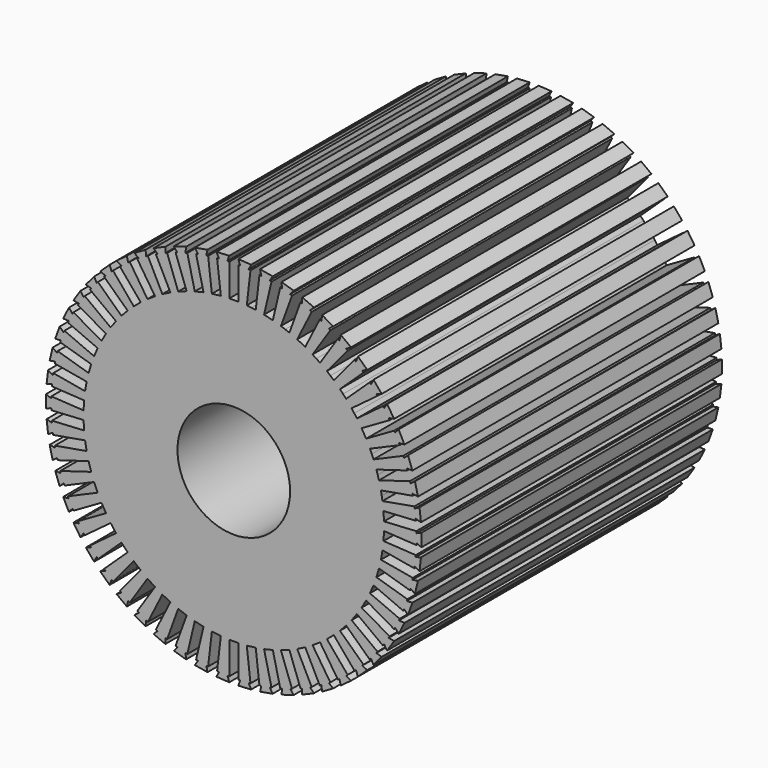
from build123d import *

# Parameters (mm, degrees)
F0_R     = 75
F1_DEPTH = 500


with BuildPart() as f1:
    # F0 (on Front) → F1 (new body)
    with BuildSketch(Plane.XZ):
        Polygon((8.5, 243), (6, 243), (6, 200), (0, 200), (-6, 200), (-6, 243), (-8.5, 243), (-6, 250), (-23.063798, 249.006147), (-19.768052, 242.343711), (-22.251148, 242.053478), (-17.259153, 199.344229), (-23.218583, 198.647672), (-29.178013, 197.951114), (-34.170008, 240.660363), (-36.653104, 240.370131), (-34.982659, 247.613032), (-51.815698, 244.644913), (-47.768775, 238.410138), (-50.201387, 237.833599), (-40.284905, 195.992669), (-46.123174, 194.608974), (-51.961443, 193.225279), (-61.877926, 235.066208), (-64.310538, 234.489669), (-63.492237, 241.877522), (-79.86688, 236.975276), (-75.123508, 231.252478), (-77.472739, 230.397428), (-62.765873, 189.990645), (-68.404029, 187.938524), (-74.042184, 185.886403), (-88.749051, 226.293186), (-91.098282, 225.438136), (-91.143192, 232.871034), (-106.837999, 226.100955), (-101.462323, 220.967525), (-103.696405, 219.845527), (-84.39804, 181.419323), (-89.759836, 178.726528), (-95.121632, 176.033733), (-114.419997, 214.459937), (-116.654078, 213.337939), (-117.561591, 220.715365), (-132.364318, 212.169007), (-126.429035, 207.694364), (-128.517755, 206.320592), (-104.888869, 170.394616), (-109.901796, 167.097562), (-114.914722, 163.800508), (-138.543609, 199.726484), (-140.632328, 198.352712), (-142.390171, 205.574899), (-156.100636, 195.367836), (-149.686011, 191.612494), (-151.601122, 190.005525), (-123.961255, 157.065614), (-128.557522, 153.208889), (-133.153789, 149.352163), (-160.793656, 182.292074), (-162.708767, 180.685105), (-165.293169, 187.654385), (-177.725961, 175.924651), (-170.918741, 172.939394), (-172.634345, 171.12096), (-141.357278, 141.612569), (-145.474728, 137.248328), (-149.592178, 132.884086), (-180.869245, 162.392476), (-182.584849, 160.574042), (-185.96086, 167.196168), (-196.947847, 154.102387), (-189.840088, 151.927585), (-191.332984, 149.922277), (-156.841687, 124.244457), (-160.424639, 119.431718), (-164.00759, 114.618979), (-198.498887, 140.296799), (-199.991784, 138.291491), (-204.11375, 144.476909), (-213.506351, 130.196152), (-206.194173, 128.861216), (-207.444173, 126.696152), (-170.205081, 105.196152), (-173.205081, 100), (-176.205081, 94.803848), (-213.444173, 116.303848), (-214.694173, 114.138784), (-219.506351, 119.803848), (-227.177548, 104.529238), (-219.759836, 104.05222), (-220.750035, 101.75668), (-181.266743, 84.72525), (-183.643221, 79.215953), (-186.0197, 73.706657), (-225.502993, 90.738087), (-226.493192, 88.442546), (-231.930505, 93.510645), (-237.776559, 77.448745), (-230.353624, 77.836096), (-231.070632, 75.441123), (-189.877083, 63.108584), (-191.597902, 57.360647), (-193.318722, 51.612709), (-234.512271, 63.945248), (-235.229279, 61.550275), (-241.218197, 65.952871), (-245.160049, 49.320891), (-237.832274, 50.567373), (-238.266395, 48.105354), (-195.919662, 40.638482), (-196.961551, 34.729636), (-198.00344, 28.820789), (-240.350173, 36.287661), (-240.784293, 33.825641), (-247.243827, 37.503198), (-249.228171, 20.526056), (-242.094651, 22.614813), (-242.240013, 20.119042), (-199.312763, 17.618815), (-199.661632, 11.628966), (-200.010501, 5.639117), (-242.937751, 8.139344), (-243.083114, 5.643574), (-249.925909, 8.546358), (-249.925909, -8.546358), (-243.083114, -5.643574), (-242.937751, -8.139344), (-200.010501, -5.639117), (-199.661632, -11.628966), (-199.312763, -17.618815), (-242.240013, -20.119042), (-242.094651, -22.614813), (-249.228171, -20.526056), (-247.243827, -37.503198), (-240.784293, -33.825641), (-240.350173, -36.287661), (-198.00344, -28.820789), (-196.961551, -34.729636), (-195.919662, -40.638482), (-238.266395, -48.105354), (-237.832274, -50.567373), (-245.160049, -49.320891), (-241.218197, -65.952871), (-235.229279, -61.550275), (-234.512271, -63.945248), (-193.318722, -51.612709), (-191.597902, -57.360647), (-189.877083, -63.108584), (-231.070632, -75.441123), (-230.353624, -77.836096), (-237.776559, -77.448745), (-231.930505, -93.510645), (-226.493192, -88.442546), (-225.502993, -90.738087), (-186.0197, -73.706657), (-183.643221, -79.215953), (-181.266743, -84.72525), (-220.750035, -101.75668), (-219.759836, -104.05222), (-227.177548, -104.529238), (-219.506351, -119.803848), (-214.694173, -114.138784), (-213.444173, -116.303848), (-176.205081, -94.803848), (-173.205081, -100), (-170.205081, -105.196152), (-207.444173, -126.696152), (-206.194173, -128.861216), (-213.506351, -130.196152), (-204.11375, -144.476909), (-199.991784, -138.291491), (-198.498887, -140.296799), (-164.00759, -114.618979), (-160.424639, -119.431718), (-156.841687, -124.244457), (-191.332984, -149.922277), (-189.840088, -151.927585), (-196.947847, -154.102387), (-185.96086, -167.196168), (-182.584849, -160.574042), (-180.869245, -162.392476), (-149.592178, -132.884086), (-145.474728, -137.248328), (-141.357278, -141.612569), (-172.634345, -171.12096), (-170.918741, -172.939394), (-177.725961, -175.924651), (-165.293169, -187.654385), (-162.708767, -180.685105), (-160.793656, -182.292074), (-133.153789, -149.352163), (-128.557522, -153.208889), (-123.961255, -157.065614), (-151.601122, -190.005525), (-149.686011, -191.612494), (-156.100636, -195.367836), (-142.390171, -205.574899), (-140.632328, -198.352712), (-138.543609, -199.726484), (-114.914722, -163.800508), (-109.901796, -167.097562), (-104.888869, -170.394616), (-128.517755, -206.320592), (-126.429035, -207.694364), (-132.364318, -212.169007), (-117.561591, -220.715365), (-116.654078, -213.337939), (-114.419997, -214.459937), (-95.121632, -176.033733), (-89.759836, -178.726528), (-84.39804, -181.419323), (-103.696405, -219.845527), (-101.462323, -220.967525), (-106.837999, -226.100955), (-91.143192, -232.871034), (-91.098282, -225.438136), (-88.749051, -226.293186), (-74.042184, -185.886403), (-68.404029, -187.938524), (-62.765873, -189.990645), (-77.472739, -230.397428), (-75.123508, -231.252478), (-79.86688, -236.975276), (-63.492237, -241.877522), (-64.310538, -234.489669), (-61.877926, -235.066208), (-51.961443, -193.225279), (-46.123174, -194.608974), (-40.284905, -195.992669), (-50.201387, -237.833599), (-47.768775, -238.410138), (-51.815698, -244.644913), (-34.982659, -247.613032), (-36.653104, -240.370131), (-34.170008, -240.660363), (-29.178013, -197.951114), (-23.218583, -198.647672), (-17.259153, -199.344229), (-22.251148, -242.053478), (-19.768052, -242.343711), (-23.063798, -249.006147), (-6, -250), (-8.5, -243), (-6, -243), (-6, -200), (0, -200), (6, -200), (6, -243), (8.5, -243), (6, -250), (23.063798, -249.006147), (19.768052, -242.343711), (22.251148, -242.053478), (17.259153, -199.344229), (23.218583, -198.647672), (29.178013, -197.951114), (34.170008, -240.660363), (36.653104, -240.370131), (34.982659, -247.613032), (51.815698, -244.644913), (47.768775, -238.410138), (50.201387, -237.833599), (40.284905, -195.992669), (46.123174, -194.608974), (51.961443, -193.225279), (61.877926, -235.066208), (64.310538, -234.489669), (63.492237, -241.877522), (79.86688, -236.975276), (75.123508, -231.252478), (77.472739, -230.397428), (62.765873, -189.990645), (68.404029, -187.938524), (74.042184, -185.886403), (88.749051, -226.293186), (91.098282, -225.438136), (91.143192, -232.871034), (106.837999, -226.100955), (101.462323, -220.967525), (103.696405, -219.845527), (84.39804, -181.419323), (89.759836, -178.726528), (95.121632, -176.033733), (114.419997, -214.459937), (116.654078, -213.337939), (117.561591, -220.715365), (132.364318, -212.169007), (126.429035, -207.694364), (128.517755, -206.320592), (104.888869, -170.394616), (109.901796, -167.097562), (114.914722, -163.800508), (138.543609, -199.726484), (140.632328, -198.352712), (142.390171, -205.574899), (156.100636, -195.367836), (149.686011, -191.612494), (151.601122, -190.005525), (123.961255, -157.065614), (128.557522, -153.208889), (133.153789, -149.352163), (160.793656, -182.292074), (162.708767, -180.685105), (165.293169, -187.654385), (177.725961, -175.924651), (170.918741, -172.939394), (172.634345, -171.12096), (141.357278, -141.612569), (145.474728, -137.248328), (149.592178, -132.884086), (180.869245, -162.392476), (182.584849, -160.574042), (185.96086, -167.196168), (196.947847, -154.102387), (189.840088, -151.927585), (191.332984, -149.922277), (156.841687, -124.244457), (160.424639, -119.431718), (164.00759, -114.618979), (198.498887, -140.296799), (199.991784, -138.291491), (204.11375, -144.476909), (213.506351, -130.196152), (206.194173, -128.861216), (207.444173, -126.696152), (170.205081, -105.196152), (173.205081, -100), (176.205081, -94.803848), (213.444173, -116.303848), (214.694173, -114.138784), (219.506351, -119.803848), (227.177548, -104.529238), (219.759836, -104.05222), (220.750035, -101.75668), (181.266743, -84.72525), (183.643221, -79.215953), (186.0197, -73.706657), (225.502993, -90.738087), (226.493192, -88.442546), (231.930505, -93.510645), (237.776559, -77.448745), (230.353624, -77.836096), (231.070632, -75.441123), (189.877083, -63.108584), (191.597902, -57.360647), (193.318722, -51.612709), (234.512271, -63.945248), (235.229279, -61.550275), (241.218197, -65.952871), (245.160049, -49.320891), (237.832274, -50.567373), (238.266395, -48.105354), (195.919662, -40.638482), (196.961551, -34.729636), (198.00344, -28.820789), (240.350173, -36.287661), (240.784293, -33.825641), (247.243827, -37.503198), (249.228171, -20.526056), (242.094651, -22.614813), (242.240013, -20.119042), (199.312763, -17.618815), (199.661632, -11.628966), (200.010501, -5.639117), (242.937751, -8.139344), (243.083114, -5.643574), (249.925909, -8.546358), (249.925909, 8.546358), (243.083114, 5.643574), (242.937751, 8.139344), (200.010501, 5.639117), (199.661632, 11.628966), (199.312763, 17.618815), (242.240013, 20.119042), (242.094651, 22.614813), (249.228171, 20.526056), (247.243827, 37.503198), (240.784293, 33.825641), (240.350173, 36.287661), (198.00344, 28.820789), (196.961551, 34.729636), (195.919662, 40.638482), (238.266395, 48.105354), (237.832274, 50.567373), (245.160049, 49.320891), (241.218197, 65.952871), (235.229279, 61.550275), (234.512271, 63.945248), (193.318722, 51.612709), (191.597902, 57.360647), (189.877083, 63.108584), (231.070632, 75.441123), (230.353624, 77.836096), (237.776559, 77.448745), (231.930505, 93.510645), (226.493192, 88.442546), (225.502993, 90.738087), (186.0197, 73.706657), (183.643221, 79.215953), (181.266743, 84.72525), (220.750035, 101.75668), (219.759836, 104.05222), (227.177548, 104.529238), (219.506351, 119.803848), (214.694173, 114.138784), (213.444173, 116.303848), (176.205081, 94.803848), (173.205081, 100), (170.205081, 105.196152), (207.444173, 126.696152), (206.194173, 128.861216), (213.506351, 130.196152), (204.11375, 144.476909), (199.991784, 138.291491), (198.498887, 140.296799), (164.00759, 114.618979), (160.424639, 119.431718), (156.841687, 124.244457), (191.332984, 149.922277), (189.840088, 151.927585), (196.947847, 154.102387), (185.96086, 167.196168), (182.584849, 160.574042), (180.869245, 162.392476), (149.592178, 132.884086), (145.474728, 137.248328), (141.357278, 141.612569), (172.634345, 171.12096), (170.918741, 172.939394), (177.725961, 175.924651), (165.293169, 187.654385), (162.708767, 180.685105), (160.793656, 182.292074), (133.153789, 149.352163), (128.557522, 153.208889), (123.961255, 157.065614), (151.601122, 190.005525), (149.686011, 191.612494), (156.100636, 195.367836), (142.390171, 205.574899), (140.632328, 198.352712), (138.543609, 199.726484), (114.914722, 163.800508), (109.901796, 167.097562), (104.888869, 170.394616), (128.517755, 206.320592), (126.429035, 207.694364), (132.364318, 212.169007), (117.561591, 220.715365), (116.654078, 213.337939), (114.419997, 214.459937), (95.121632, 176.033733), (89.759836, 178.726528), (84.39804, 181.419323), (103.696405, 219.845527), (101.462323, 220.967525), (106.837999, 226.100955), (91.143192, 232.871034), (91.098282, 225.438136), (88.749051, 226.293186), (74.042184, 185.886403), (68.404029, 187.938524), (62.765873, 189.990645), (77.472739, 230.397428), (75.123508, 231.252478), (79.86688, 236.975276), (63.492237, 241.877522), (64.310538, 234.489669), (61.877926, 235.066208), (51.961443, 193.225279), (46.123174, 194.608974), (40.284905, 195.992669), (50.201387, 237.833599), (47.768775, 238.410138), (51.815698, 244.644913), (34.982659, 247.613032), (36.653104, 240.370131), (34.170008, 240.660363), (29.178013, 197.951114), (23.218583, 198.647672), (17.259153, 199.344229), (22.251148, 242.053478), (19.768052, 242.343711), (23.063798, 249.006147), (6, 250), align=None)
        Circle(F0_R, mode=Mode.SUBTRACT)
        Polygon((8.5, 243), (6, 243), (6, 200), (0, 200), (-6, 200), (-6, 243), (-8.5, 243), (-6, 250), (-23.063798, 249.006147), (-19.768052, 242.343711), (-22.251148, 242.053478), (-17.259153, 199.344229), (-23.218583, 198.647672), (-29.178013, 197.951114), (-34.170008, 240.660363), (-36.653104, 240.370131), (-34.982659, 247.613032), (-51.815698, 244.644913), (-47.768775, 238.410138), (-50.201387, 237.833599), (-40.284905, 195.992669), (-46.123174, 194.608974), (-51.961443, 193.225279), (-61.877926, 235.066208), (-64.310538, 234.489669), (-63.492237, 241.877522), (-79.86688, 236.975276), (-75.123508, 231.252478), (-77.472739, 230.397428), (-62.765873, 189.990645), (-68.404029, 187.938524), (-74.042184, 185.886403), (-88.749051, 226.293186), (-91.098282, 225.438136), (-91.143192, 232.871034), (-106.837999, 226.100955), (-101.462323, 220.967525), (-103.696405, 219.845527), (-84.39804, 181.419323), (-89.759836, 178.726528), (-95.121632, 176.033733), (-114.419997, 214.459937), (-116.654078, 213.337939), (-117.561591, 220.715365), (-132.364318, 212.169007), (-126.429035, 207.694364), (-128.517755, 206.320592), (-104.888869, 170.394616), (-109.901796, 167.097562), (-114.914722, 163.800508), (-138.543609, 199.726484), (-140.632328, 198.352712), (-142.390171, 205.574899), (-156.100636, 195.367836), (-149.686011, 191.612494), (-151.601122, 190.005525), (-123.961255, 157.065614), (-128.557522, 153.208889), (-133.153789, 149.352163), (-160.793656, 182.292074), (-162.708767, 180.685105), (-165.293169, 187.654385), (-177.725961, 175.924651), (-170.918741, 172.939394), (-172.634345, 171.12096), (-141.357278, 141.612569), (-145.474728, 137.248328), (-149.592178, 132.884086), (-180.869245, 162.392476), (-182.584849, 160.574042), (-185.96086, 167.196168), (-196.947847, 154.102387), (-189.840088, 151.927585), (-191.332984, 149.922277), (-156.841687, 124.244457), (-160.424639, 119.431718), (-164.00759, 114.618979), (-198.498887, 140.296799), (-199.991784, 138.291491), (-204.11375, 144.476909), (-213.506351, 130.196152), (-206.194173, 128.861216), (-207.444173, 126.696152), (-170.205081, 105.196152), (-173.205081, 100), (-176.205081, 94.803848), (-213.444173, 116.303848), (-214.694173, 114.138784), (-219.506351, 119.803848), (-227.177548, 104.529238), (-219.759836, 104.05222), (-220.750035, 101.75668), (-181.266743, 84.72525), (-183.643221, 79.215953), (-186.0197, 73.706657), (-225.502993, 90.738087), (-226.493192, 88.442546), (-231.930505, 93.510645), (-237.776559, 77.448745), (-230.353624, 77.836096), (-231.070632, 75.441123), (-189.877083, 63.108584), (-191.597902, 57.360647), (-193.318722, 51.612709), (-234.512271, 63.945248), (-235.229279, 61.550275), (-241.218197, 65.952871), (-245.160049, 49.320891), (-237.832274, 50.567373), (-238.266395, 48.105354), (-195.919662, 40.638482), (-196.961551, 34.729636), (-198.00344, 28.820789), (-240.350173, 36.287661), (-240.784293, 33.825641), (-247.243827, 37.503198), (-249.228171, 20.526056), (-242.094651, 22.614813), (-242.240013, 20.119042), (-199.312763, 17.618815), (-199.661632, 11.628966), (-200.010501, 5.639117), (-242.937751, 8.139344), (-243.083114, 5.643574), (-249.925909, 8.546358), (-249.925909, -8.546358), (-243.083114, -5.643574), (-242.937751, -8.139344), (-200.010501, -5.639117), (-199.661632, -11.628966), (-199.312763, -17.618815), (-242.240013, -20.119042), (-242.094651, -22.614813), (-249.228171, -20.526056), (-247.243827, -37.503198), (-240.784293, -33.825641), (-240.350173, -36.287661), (-198.00344, -28.820789), (-196.961551, -34.729636), (-195.919662, -40.638482), (-238.266395, -48.105354), (-237.832274, -50.567373), (-245.160049, -49.320891), (-241.218197, -65.952871), (-235.229279, -61.550275), (-234.512271, -63.945248), (-193.318722, -51.612709), (-191.597902, -57.360647), (-189.877083, -63.108584), (-231.070632, -75.441123), (-230.353624, -77.836096), (-237.776559, -77.448745), (-231.930505, -93.510645), (-226.493192, -88.442546), (-225.502993, -90.738087), (-186.0197, -73.706657), (-183.643221, -79.215953), (-181.266743, -84.72525), (-220.750035, -101.75668), (-219.759836, -104.05222), (-227.177548, -104.529238), (-219.506351, -119.803848), (-214.694173, -114.138784), (-213.444173, -116.303848), (-176.205081, -94.803848), (-173.205081, -100), (-170.205081, -105.196152), (-207.444173, -126.696152), (-206.194173, -128.861216), (-213.506351, -130.196152), (-204.11375, -144.476909), (-199.991784, -138.291491), (-198.498887, -140.296799), (-164.00759, -114.618979), (-160.424639, -119.431718), (-156.841687, -124.244457), (-191.332984, -149.922277), (-189.840088, -151.927585), (-196.947847, -154.102387), (-185.96086, -167.196168), (-182.584849, -160.574042), (-180.869245, -162.392476), (-149.592178, -132.884086), (-145.474728, -137.248328), (-141.357278, -141.612569), (-172.634345, -171.12096), (-170.918741, -172.939394), (-177.725961, -175.924651), (-165.293169, -187.654385), (-162.708767, -180.685105), (-160.793656, -182.292074), (-133.153789, -149.352163), (-128.557522, -153.208889), (-123.961255, -157.065614), (-151.601122, -190.005525), (-149.686011, -191.612494), (-156.100636, -195.367836), (-142.390171, -205.574899), (-140.632328, -198.352712), (-138.543609, -199.726484), (-114.914722, -163.800508), (-109.901796, -167.097562), (-104.888869, -170.394616), (-128.517755, -206.320592), (-126.429035, -207.694364), (-132.364318, -212.169007), (-117.561591, -220.715365), (-116.654078, -213.337939), (-114.419997, -214.459937), (-95.121632, -176.033733), (-89.759836, -178.726528), (-84.39804, -181.419323), (-103.696405, -219.845527), (-101.462323, -220.967525), (-106.837999, -226.100955), (-91.143192, -232.871034), (-91.098282, -225.438136), (-88.749051, -226.293186), (-74.042184, -185.886403), (-68.404029, -187.938524), (-62.765873, -189.990645), (-77.472739, -230.397428), (-75.123508, -231.252478), (-79.86688, -236.975276), (-63.492237, -241.877522), (-64.310538, -234.489669), (-61.877926, -235.066208), (-51.961443, -193.225279), (-46.123174, -194.608974), (-40.284905, -195.992669), (-50.201387, -237.833599), (-47.768775, -238.410138), (-51.815698, -244.644913), (-34.982659, -247.613032), (-36.653104, -240.370131), (-34.170008, -240.660363), (-29.178013, -197.951114), (-23.218583, -198.647672), (-17.259153, -199.344229), (-22.251148, -242.053478), (-19.768052, -242.343711), (-23.063798, -249.006147), (-6, -250), (-8.5, -243), (-6, -243), (-6, -200), (0, -200), (6, -200), (6, -243), (8.5, -243), (6, -250), (23.063798, -249.006147), (19.768052, -242.343711), (22.251148, -242.053478), (17.259153, -199.344229), (23.218583, -198.647672), (29.178013, -197.951114), (34.170008, -240.660363), (36.653104, -240.370131), (34.982659, -247.613032), (51.815698, -244.644913), (47.768775, -238.410138), (50.201387, -237.833599), (40.284905, -195.992669), (46.123174, -194.608974), (51.961443, -193.225279), (61.877926, -235.066208), (64.310538, -234.489669), (63.492237, -241.877522), (79.86688, -236.975276), (75.123508, -231.252478), (77.472739, -230.397428), (62.765873, -189.990645), (68.404029, -187.938524), (74.042184, -185.886403), (88.749051, -226.293186), (91.098282, -225.438136), (91.143192, -232.871034), (106.837999, -226.100955), (101.462323, -220.967525), (103.696405, -219.845527), (84.39804, -181.419323), (89.759836, -178.726528), (95.121632, -176.033733), (114.419997, -214.459937), (116.654078, -213.337939), (117.561591, -220.715365), (132.364318, -212.169007), (126.429035, -207.694364), (128.517755, -206.320592), (104.888869, -170.394616), (109.901796, -167.097562), (114.914722, -163.800508), (138.543609, -199.726484), (140.632328, -198.352712), (142.390171, -205.574899), (156.100636, -195.367836), (149.686011, -191.612494), (151.601122, -190.005525), (123.961255, -157.065614), (128.557522, -153.208889), (133.153789, -149.352163), (160.793656, -182.292074), (162.708767, -180.685105), (165.293169, -187.654385), (177.725961, -175.924651), (170.918741, -172.939394), (172.634345, -171.12096), (141.357278, -141.612569), (145.474728, -137.248328), (149.592178, -132.884086), (180.869245, -162.392476), (182.584849, -160.574042), (185.96086, -167.196168), (196.947847, -154.102387), (189.840088, -151.927585), (191.332984, -149.922277), (156.841687, -124.244457), (160.424639, -119.431718), (164.00759, -114.618979), (198.498887, -140.296799), (199.991784, -138.291491), (204.11375, -144.476909), (213.506351, -130.196152), (206.194173, -128.861216), (207.444173, -126.696152), (170.205081, -105.196152), (173.205081, -100), (176.205081, -94.803848), (213.444173, -116.303848), (214.694173, -114.138784), (219.506351, -119.803848), (227.177548, -104.529238), (219.759836, -104.05222), (220.750035, -101.75668), (181.266743, -84.72525), (183.643221, -79.215953), (186.0197, -73.706657), (225.502993, -90.738087), (226.493192, -88.442546), (231.930505, -93.510645), (237.776559, -77.448745), (230.353624, -77.836096), (231.070632, -75.441123), (189.877083, -63.108584), (191.597902, -57.360647), (193.318722, -51.612709), (234.512271, -63.945248), (235.229279, -61.550275), (241.218197, -65.952871), (245.160049, -49.320891), (237.832274, -50.567373), (238.266395, -48.105354), (195.919662, -40.638482), (196.961551, -34.729636), (198.00344, -28.820789), (240.350173, -36.287661), (240.784293, -33.825641), (247.243827, -37.503198), (249.228171, -20.526056), (242.094651, -22.614813), (242.240013, -20.119042), (199.312763, -17.618815), (199.661632, -11.628966), (200.010501, -5.639117), (242.937751, -8.139344), (243.083114, -5.643574), (249.925909, -8.546358), (249.925909, 8.546358), (243.083114, 5.643574), (242.937751, 8.139344), (200.010501, 5.639117), (199.661632, 11.628966), (199.312763, 17.618815), (242.240013, 20.119042), (242.094651, 22.614813), (249.228171, 20.526056), (247.243827, 37.503198), (240.784293, 33.825641), (240.350173, 36.287661), (198.00344, 28.820789), (196.961551, 34.729636), (195.919662, 40.638482), (238.266395, 48.105354), (237.832274, 50.567373), (245.160049, 49.320891), (241.218197, 65.952871), (235.229279, 61.550275), (234.512271, 63.945248), (193.318722, 51.612709), (191.597902, 57.360647), (189.877083, 63.108584), (231.070632, 75.441123), (230.353624, 77.836096), (237.776559, 77.448745), (231.930505, 93.510645), (226.493192, 88.442546), (225.502993, 90.738087), (186.0197, 73.706657), (183.643221, 79.215953), (181.266743, 84.72525), (220.750035, 101.75668), (219.759836, 104.05222), (227.177548, 104.529238), (219.506351, 119.803848), (214.694173, 114.138784), (213.444173, 116.303848), (176.205081, 94.803848), (173.205081, 100), (170.205081, 105.196152), (207.444173, 126.696152), (206.194173, 128.861216), (213.506351, 130.196152), (204.11375, 144.476909), (199.991784, 138.291491), (198.498887, 140.296799), (164.00759, 114.618979), (160.424639, 119.431718), (156.841687, 124.244457), (191.332984, 149.922277), (189.840088, 151.927585), (196.947847, 154.102387), (185.96086, 167.196168), (182.584849, 160.574042), (180.869245, 162.392476), (149.592178, 132.884086), (145.474728, 137.248328), (141.357278, 141.612569), (172.634345, 171.12096), (170.918741, 172.939394), (177.725961, 175.924651), (165.293169, 187.654385), (162.708767, 180.685105), (160.793656, 182.292074), (133.153789, 149.352163), (128.557522, 153.208889), (123.961255, 157.065614), (151.601122, 190.005525), (149.686011, 191.612494), (156.100636, 195.367836), (142.390171, 205.574899), (140.632328, 198.352712), (138.543609, 199.726484), (114.914722, 163.800508), (109.901796, 167.097562), (104.888869, 170.394616), (128.517755, 206.320592), (126.429035, 207.694364), (132.364318, 212.169007), (117.561591, 220.715365), (116.654078, 213.337939), (114.419997, 214.459937), (95.121632, 176.033733), (89.759836, 178.726528), (84.39804, 181.419323), (103.696405, 219.845527), (101.462323, 220.967525), (106.837999, 226.100955), (91.143192, 232.871034), (91.098282, 225.438136), (88.749051, 226.293186), (74.042184, 185.886403), (68.404029, 187.938524), (62.765873, 189.990645), (77.472739, 230.397428), (75.123508, 231.252478), (79.86688, 236.975276), (63.492237, 241.877522), (64.310538, 234.489669), (61.877926, 235.066208), (51.961443, 193.225279), (46.123174, 194.608974), (40.284905, 195.992669), (50.201387, 237.833599), (47.768775, 238.410138), (51.815698, 244.644913), (34.982659, 247.613032), (36.653104, 240.370131), (34.170008, 240.660363), (29.178013, 197.951114), (23.218583, 198.647672), (17.259153, 199.344229), (22.251148, 242.053478), (19.768052, 242.343711), (23.063798, 249.006147), (6, 250), align=None)
        Circle(F0_R, mode=Mode.SUBTRACT)
    extrude(amount=F1_DEPTH)


solid = f1.part
